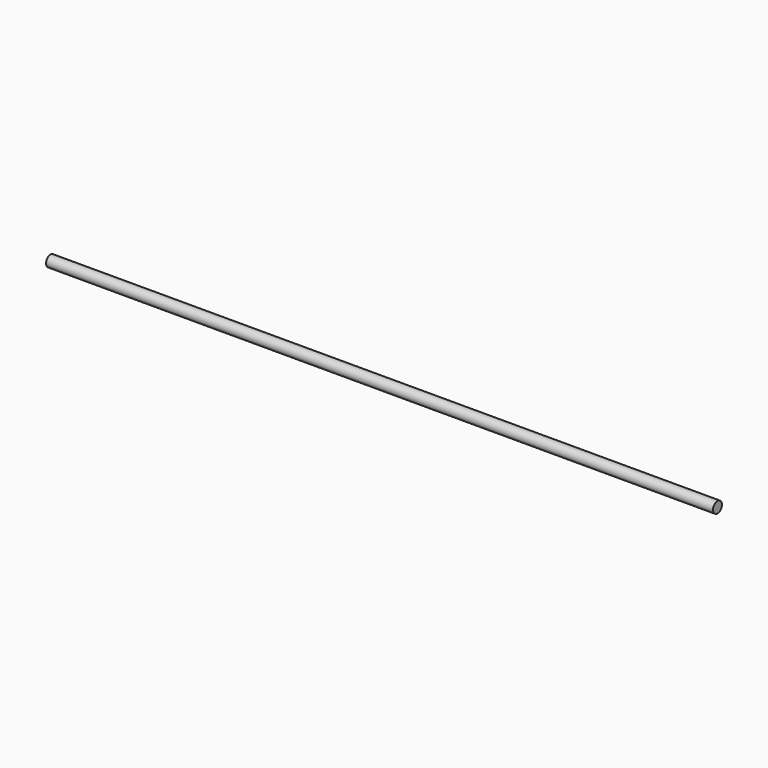
from build123d import *

# Parameters (mm, degrees)
SKETCH_R  = 12.7
PAD_DEPTH = 1527.048


with BuildPart() as part:
    # Sketch → Pad (new body)
    with BuildSketch(Plane.YZ):
        with Locations((-63.091084, -108.92556)):
            Circle(SKETCH_R)
    extrude(amount=-PAD_DEPTH)


solid = part.part
